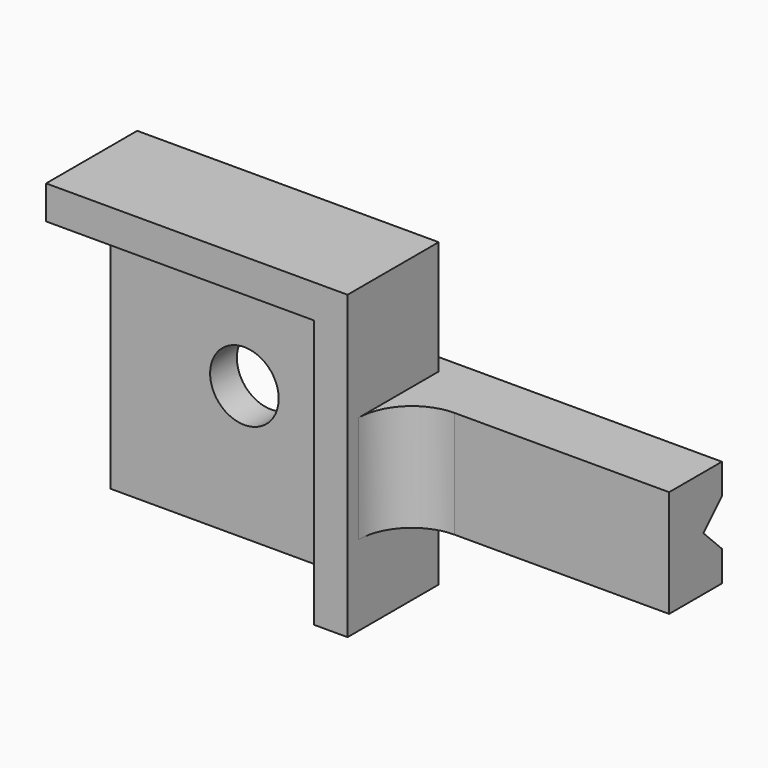
from build123d import *

# Parameters (mm, degrees)
SKETCH_W          = 25.4
SKETCH_H          = 3.175
PAD_DEPTH         = 25.4
SKETCH001_W       = 28.575
SKETCH001_H       = 10.16
PAD001_DEPTH      = 1.81
PAD001_DEPTH_BACK = 4.445
POCKET_DEPTH      = 9.525
POCKET001_DEPTH   = 12.7
CHAMFER_SIZE      = 1.8034
SKETCH004_R       = 3.2512
POCKET002_DEPTH   = 4.446
PAD002_DEPTH      = 10.795
FILLET_R          = 5.08


with BuildPart() as part:
    # Sketch → Pad (new body)
    with BuildSketch(Plane.XY):
        with Locations((-12.7, 1.5875)):
            Rectangle(SKETCH_W, SKETCH_H)
    extrude(amount=PAD_DEPTH)

    # Sketch001 (on Face1 of Pad) → Pad001 (join, two sides)
    with BuildSketch(Plane(origin=(0, 3.175, 0), x_dir=(-1, 0, 0), z_dir=(0, 1, 0))) as pad001_sk:
        with Locations((-14.2875, 12.7)):
            Rectangle(SKETCH001_W, SKETCH001_H)
    extrude(amount=PAD001_DEPTH)
    extrude(pad001_sk.sketch, amount=-PAD001_DEPTH_BACK)

    # Sketch002 (on Face13 of Pad001) → Pocket (cut)
    with BuildSketch(Plane.YZ.offset(28.575)):
        Polygon((9.150137, 19.05), (2.800137, 12.7), (9.150137, 6.35), align=None)
    extrude(amount=-POCKET_DEPTH, mode=Mode.SUBTRACT)

    # Sketch003 (on Face16 of Pocket) → Pocket001 (cut)
    with BuildSketch(Plane.YZ.offset(19.05)):
        with BuildLine():
            ThreePointArc((4.08, 14.732), (2.048, 12.7), (4.08, 10.668))
            Line((4.985, 10.668), (4.08, 10.668))
            Line((4.985, 14.732), (4.985, 10.668))
            Line((4.08, 14.732), (4.985, 14.732))
        make_face()
    extrude(amount=-POCKET001_DEPTH, mode=Mode.SUBTRACT)

    # Chamfer
    chamfer_edges = [part.edges().sort_by_distance(p)[0] for p in [
        (0, 4.985, 12.7),
    ]]
    chamfer(chamfer_edges, length=CHAMFER_SIZE)

    # Sketch004 (on Face4 of Chamfer) → Pocket002 (cut, through all)
    with BuildSketch(Plane(origin=(0, 3.175, 0), x_dir=(-1, 0, 0), z_dir=(0, 1, 0))):
        with Locations((12.7, 12.7)):
            Circle(SKETCH004_R)
    extrude(amount=-POCKET002_DEPTH, mode=Mode.SUBTRACT)

    # Sketch006 (on Face4 of Pocket002) → Pad002 (join)
    with BuildSketch(Plane(origin=(0, 3.175, 0), x_dir=(-1, 0, 0), z_dir=(0, 1, 0))):
        Polygon((0, 0), (-3.175, 0), (-3.175, 28.575), (25.4, 28.575), (25.4, 25.4), (0, 25.4), align=None)
    extrude(amount=-PAD002_DEPTH)

    # Fillet
    fillet_edges = [part.edges().sort_by_distance(p)[0] for p in [
        (3.175, -1.27, 12.7),
    ]]
    fillet(fillet_edges, radius=FILLET_R)


solid = part.part
